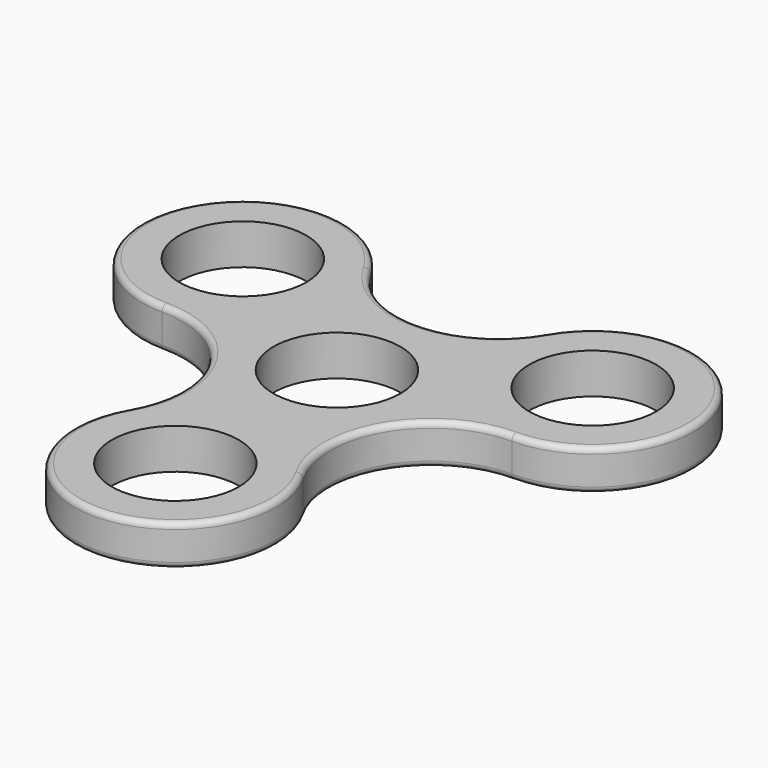
from build123d import *

# Parameters (mm, degrees)
F1_R     = 11
F2_DEPTH = 3.5
F3_R     = 1


with BuildPart() as f2:
    # F1 (on Top) → F2 (new body, symmetric)
    with BuildSketch(Plane.XY):
        with BuildLine():
            ThreePointArc((-30.310889, 0), (-15.155445, -8.75), (-15.155445, -26.25))
            ThreePointArc((-15.155445, -26.25), (0, -52.5), (15.155445, -26.25))
            ThreePointArc((15.155445, -26.25), (15.155445, -8.75), (30.310889, 0))
            ThreePointArc((30.310889, 0), (45.466334, 26.25), (15.155445, 26.25))
            ThreePointArc((15.155445, 26.25), (0, 17.5), (-15.155445, 26.25))
            ThreePointArc((-15.155445, 26.25), (-45.466334, 26.25), (-30.310889, 0))
        make_face()
        with Locations((0, -35)):
            Circle(F1_R, mode=Mode.SUBTRACT)
        Circle(F1_R, mode=Mode.SUBTRACT)
        with Locations((-30.310889, 17.5)):
            Circle(F1_R, mode=Mode.SUBTRACT)
        with Locations((30.310889, 17.5)):
            Circle(F1_R, mode=Mode.SUBTRACT)
    extrude(amount=F2_DEPTH, both=True)

    # F3
    f3_edges = [f2.edges().sort_by_distance(p)[0] for p in [
        (-15.155445, -8.75, 3.5),
        (0, -52.5, -3.5),
    ]]
    fillet(f3_edges, radius=F3_R)


solid = f2.part
